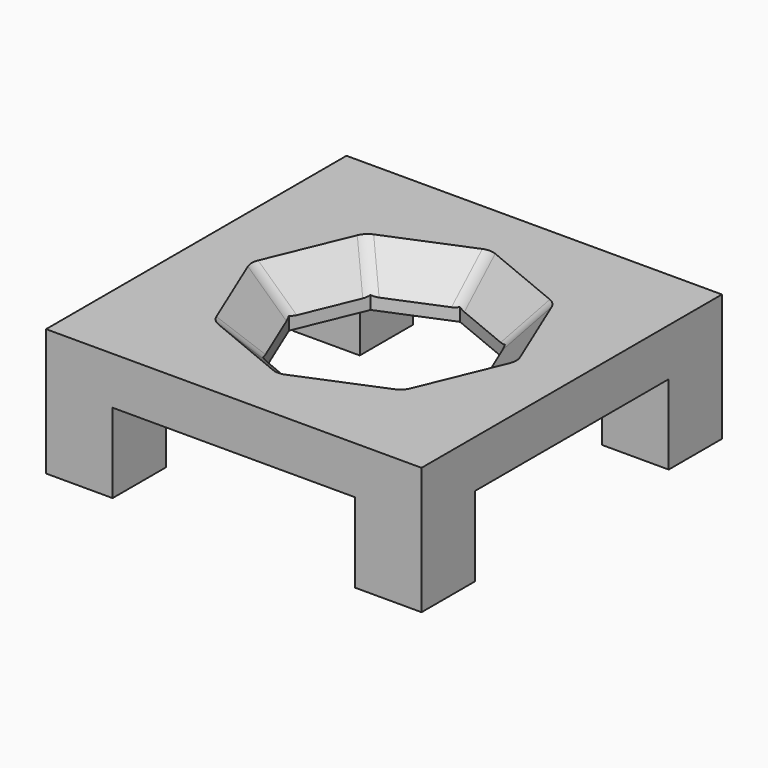
from build123d import *

# Parameters (mm, degrees)
SKETCH020_W     = 31.6
SKETCH020_H     = 31.6
PAD010_DEPTH    = 4
CHAMFER_SIZE    = 3
FILLET011_R     = 2
SKETCH021_W     = 5.6
SKETCH021_H     = 5.6
PAD011_DEPTH    = 6.7
SKETCH022_R     = 2
POCKET004_DEPTH = 6.7


with BuildPart() as part:
    # Sketch020 → Pad010 (new body)
    with BuildSketch(Plane.XY):
        Rectangle(SKETCH020_W, SKETCH020_H)
        Polygon((0, 8), (-5.656854, 5.656854), (-8, 0), (-5.656854, -5.656854), (0, -8), (5.656854, -5.656854), (8, 0), (5.656854, 5.656854), align=None, mode=Mode.SUBTRACT)
    extrude(amount=-PAD010_DEPTH)

    # Chamfer
    chamfer_edges = [part.edges().sort_by_distance(p)[0] for p in [
        (2.828427, 6.828427, 0),
        (6.828427, 2.828427, 0),
        (6.828427, -2.828427, 0),
        (2.828427, -6.828427, 0),
        (-2.828427, -6.828427, 0),
        (-6.828427, -2.828427, 0),
        (-6.828427, 2.828427, 0),
        (-2.828427, 6.828427, 0),
    ]]
    chamfer(chamfer_edges, length=CHAMFER_SIZE)

    # Fillet011
    fillet011_edges = [part.edges().sort_by_distance(p)[0] for p in [
        (-6.804905, 6.804905, -1.5),
        (0, 9.623588, -1.5),
        (6.804905, 6.804905, -1.5),
        (9.623588, 0, -1.5),
        (-6.804905, -6.804905, -1.5),
        (-9.623588, 0, -1.5),
        (0, -9.623588, -1.5),
        (6.804905, -6.804905, -1.5),
    ]]
    fillet(fillet011_edges, radius=FILLET011_R)

    # Sketch021 (on Face4 of Fillet011) → Pad011 (join)
    with BuildSketch(Plane(origin=(0, 0, -4), x_dir=(1, 0, 0), z_dir=(0, 0, -1))):
        with Locations((-13, -13)):
            Rectangle(SKETCH021_W, SKETCH021_H)
        with Locations((13, -13)):
            Rectangle(SKETCH021_W, SKETCH021_H)
        with Locations((13, 13)):
            Rectangle(SKETCH021_W, SKETCH021_H)
        with Locations((-13, 13)):
            Rectangle(SKETCH021_W, SKETCH021_H)
    extrude(amount=PAD011_DEPTH)

    # Sketch022 (on Face43 of Pad011) → Pocket004 (cut)
    with BuildSketch(Plane(origin=(0, 0, -10.7), x_dir=(1, 0, 0), z_dir=(0, 0, -1))):
        with Locations((-13, 13)):
            Circle(SKETCH022_R)
        with Locations((13, 13)):
            Circle(SKETCH022_R)
        with Locations((13, -13)):
            Circle(SKETCH022_R)
        with Locations((-13, -13)):
            Circle(SKETCH022_R)
    extrude(amount=-POCKET004_DEPTH, mode=Mode.SUBTRACT)


solid = part.part
